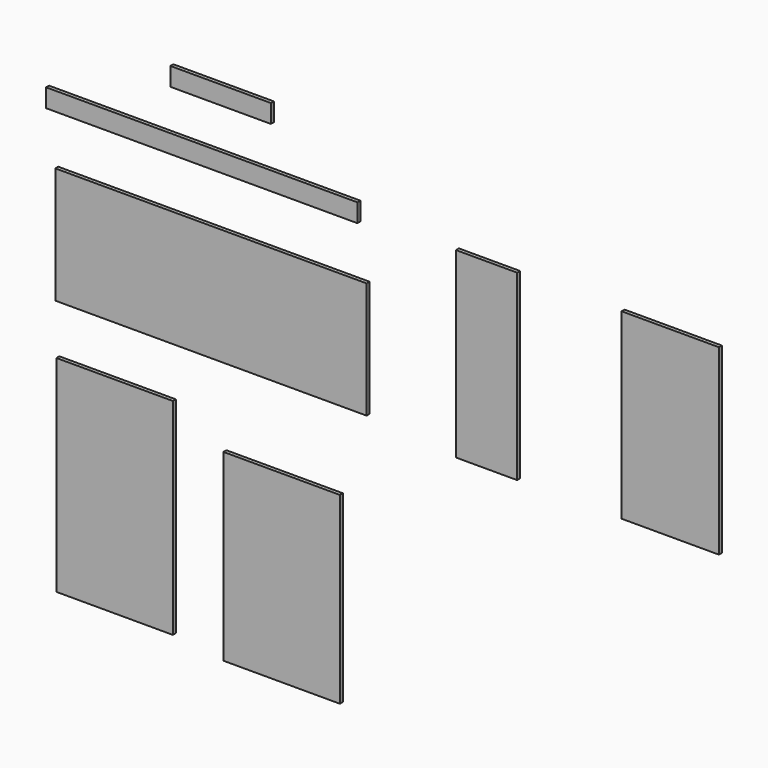
from build123d import *

# Parameters (mm, degrees)
F0_W      = 1270
F0_H      = 75
F1_DEPTH  = 15
F2_W      = 1270
F2_H      = 475
F3_DEPTH  = 15
F4_W      = 475
F4_H      = 840
F5_DEPTH  = 15
F6_W      = 410
F6_H      = 75
F7_DEPTH  = 15
F8_W      = 475
F8_H      = 750
F9_DEPTH  = 15
F10_W     = 397
F10_H     = 745
F11_DEPTH = 15
F10_W_2   = 250
F12_DEPTH = 15


with BuildPart() as f1:
    # F0 (on Front) → F1 (new body)
    with BuildSketch(Plane.XZ):
        with Locations((-568.687045, 28.718525)):
            Rectangle(F0_W, F0_H)
    extrude(amount=F1_DEPTH)


with BuildPart() as f3:
    # F2 (on Front) → F3 (new body)
    with BuildSketch(Plane.XZ):
        with Locations((-531.22702, -450.18549)):
            Rectangle(F2_W, F2_H)
    extrude(amount=F3_DEPTH)


with BuildPart() as f5:
    # F4 (on Front) → F5 (new body)
    with BuildSketch(Plane.XZ):
        with Locations((-924.037862, -1312.09095)):
            Rectangle(F4_W, F4_H)
    extrude(amount=F5_DEPTH)


with BuildPart() as f7:
    # F6 (on Front) → F7 (new body)
    with BuildSketch(Plane.XZ):
        with Locations((-491.687016, 270.416832)):
            Rectangle(F6_W, F6_H)
    extrude(amount=F7_DEPTH)


with BuildPart() as f9:
    # F8 (on Front) → F9 (new body)
    with BuildSketch(Plane.XZ):
        with Locations((-242.612016, -1382.789493)):
            Rectangle(F8_W, F8_H)
    extrude(amount=F9_DEPTH)


with BuildPart() as f11:
    # F10 (on Front) → F11 (new body)
    with BuildSketch(Plane.XZ):
        with Locations((1342.781249, -347.023013)):
            Rectangle(F10_W, F10_H)
    extrude(amount=F11_DEPTH)


with BuildPart() as f12:
    # F10 (on Front) → F12 (new body)
    with BuildSketch(Plane.XZ):
        with Locations((593.111008, -347.023013)):
            Rectangle(F10_W_2, F10_H)
    extrude(amount=F12_DEPTH)


solid = Compound([f1.part, f3.part, f5.part, f7.part, f9.part, f11.part, f12.part])
